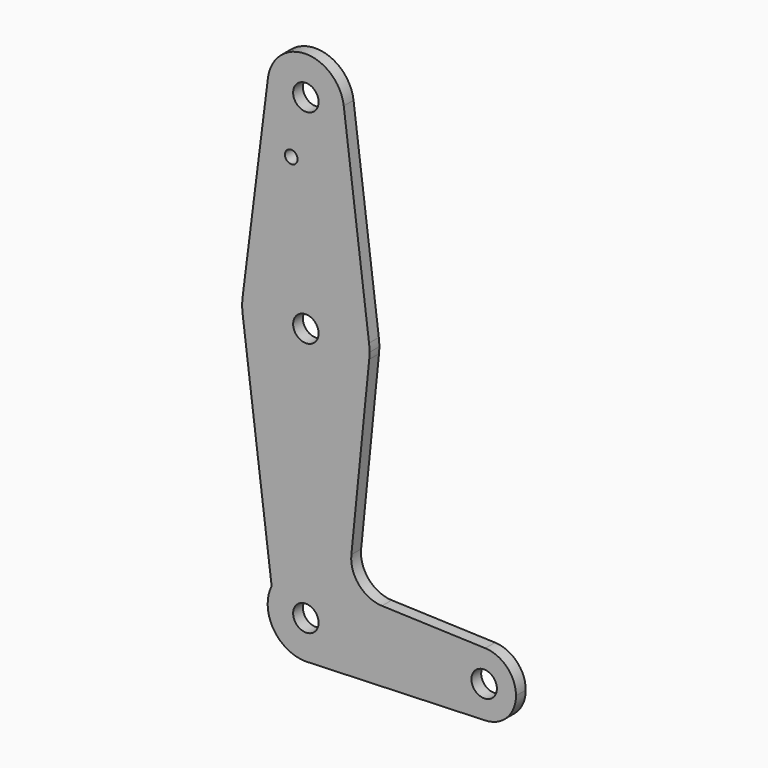
from build123d import *

# Parameters (mm, degrees)
F0_R     = 3.175
F0_R_2   = 1.5875
F1_DEPTH = 3.048


with BuildPart() as f1:
    # F0 (on Front) → F1 (new body)
    with BuildSketch(Plane.XZ):
        with BuildLine():
            ThreePointArc((-9.4502929642, 115.490625), (-0.596483242, 104.7936951058), (9.525, 114.3))
            ThreePointArc((9.525, 114.3), (9.5063048942, 114.896483242), (9.4502929642, 115.490625))
            ThreePointArc((9.4502929642, 115.490625), (0, 123.825), (-9.4502929642, 115.490625))
        make_face()
        with Locations((0, 114.3)):
            Circle(F0_R, mode=Mode.SUBTRACT)
        with BuildLine():
            ThreePointArc((9.4502929642, 115.490625), (9.5063048942, 114.896483242), (9.525, 114.3))
            ThreePointArc((9.525, 114.3), (-0.596483242, 104.7936951058), (-9.4502929642, 115.490625))
            Line((-9.4502929642, 115.490625), (-15.7504882737, 65.484375))
            ThreePointArc((-15.7504882737, 65.484375), (0, 79.375), (15.7504882737, 65.484375))
            Line((15.7504882737, 65.484375), (9.4502929642, 115.490625))
        make_face()
        with Locations((-3.6440377589, 100.0252)):
            Circle(F0_R_2, mode=Mode.SUBTRACT)
        with BuildLine():
            Line((15.7504882737, 61.515625), (15.7504882737, 65.484375))
            ThreePointArc((15.7504882737, 65.484375), (0, 79.375), (-15.7504882737, 65.484375))
            Line((-15.7504882737, 65.484375), (-15.7504882737, 61.515625))
            ThreePointArc((-15.7504882737, 61.515625), (0, 47.625), (15.7504882737, 61.515625))
        make_face()
        with Locations((0, 63.5)):
            Circle(F0_R, mode=Mode.SUBTRACT)
        with BuildLine():
            ThreePointArc((15.875, 63.5), (15.8438414904, 64.4941387366), (15.7504882737, 65.484375))
            Line((15.7504882737, 65.484375), (15.7504882737, 61.515625))
            ThreePointArc((15.7504882737, 61.515625), (15.7742051276, 61.7139211681), (15.7954255641, 61.9125))
            ThreePointArc((15.7954255641, 61.9125), (15.8550939106, 62.7052534459), (15.875, 63.5))
        make_face()
        with BuildLine():
            Line((-15.7504882737, 61.515625), (-15.7504882737, 65.484375))
            ThreePointArc((-15.7504882737, 65.484375), (-15.875, 63.5), (-15.7504882737, 61.515625))
        make_face()
        with BuildLine():
            ThreePointArc((15.7954255641, 61.9125), (15.7742051276, 61.7139211681), (15.7504882737, 61.515625))
            ThreePointArc((15.7504882737, 61.515625), (0, 47.625), (-15.7504882737, 61.515625))
            Line((-15.7504882737, 61.515625), (-8.5333868687, 4.2316584869))
            ThreePointArc((-8.5333868687, 4.2316584869), (2.1731446197, 9.2737838805), (9.525, 0))
            ThreePointArc((9.525, 0), (6.9705567315, -6.4912990883), (0.6773435479, -9.500885786))
            Line((0.6773435479, -9.500885786), (44.7324052746, -7.9324746146))
            ThreePointArc((44.7324052746, -7.9324746146), (36.5125000183, 0.0005387766), (44.7334821429, 7.9324362036))
            Line((44.7334821429, 7.9324362036), (18.9676000005, 8.8532337108))
            ThreePointArc((18.9676000005, 8.8532337108), (13.2611998974, 11.5713591498), (11.3411865923, 17.5933818124))
            Line((11.3411865923, 17.5933818124), (15.7954255641, 61.9125))
        make_face()
        with BuildLine():
            ThreePointArc((9.525, 0), (2.1731446197, 9.2737838805), (-8.5333868687, 4.2316584869))
            ThreePointArc((-8.5333868687, 4.2316584869), (-8.0942007662, -5.0209101721), (0, -9.525))
            Line((0, -9.525), (0.6773435479, -9.500885786))
            ThreePointArc((0.6773435479, -9.500885786), (6.9705567315, -6.4912990883), (9.525, 0))
        make_face()
        Circle(F0_R, mode=Mode.SUBTRACT)
        with BuildLine():
            Line((0.6773435479, -9.500885786), (0, -9.525))
            ThreePointArc((0, -9.525), (0.3388863295, -9.5189695375), (0.6773435479, -9.500885786))
        make_face()
        with BuildLine():
            ThreePointArc((52.3875, 0), (50.1620069047, 5.5115227815), (44.7334821429, 7.9324362036))
            ThreePointArc((44.7334821429, 7.9324362036), (36.5125000183, 0.0005387766), (44.7324052746, -7.9324746146))
            ThreePointArc((44.7324052746, -7.9324746146), (50.1616327839, -5.5119104847), (52.3875, 0))
        make_face()
        with Locations((44.45, 0)):
            Circle(F0_R, mode=Mode.SUBTRACT)
    extrude(amount=F1_DEPTH)


solid = f1.part
